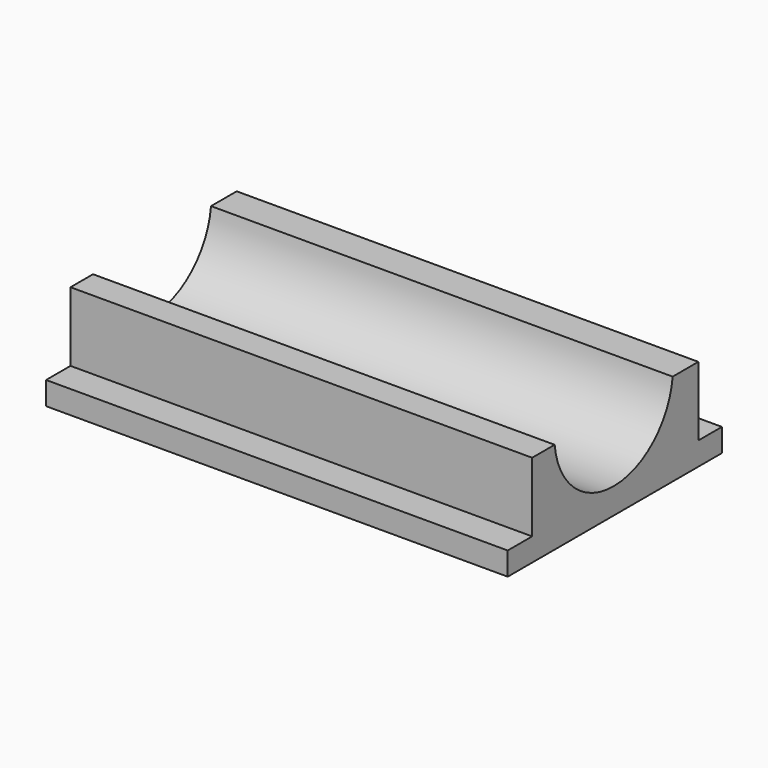
from build123d import *

# Parameters (mm, degrees)
F0_W     = 114.3
F0_H     = 12.7
F0_W_2   = 16.2275771356
F0_W_3   = 16.7924228644
F1_DEPTH = 254


with BuildPart() as f1:
    # F0 (on Right) → F1 (new body)
    with BuildSketch(Plane.YZ):
        with BuildLine():
            Line((-56.8675771356, 44.45), (-56.8675771356, 6.35))
            Line((-56.8675771356, 6.35), (57.4324228644, 6.35))
            Line((57.4324228644, 6.35), (57.4324228644, 44.45))
            Line((57.4324228644, 44.45), (39.7805348039, 44.45))
            ThreePointArc((39.7805348039, 44.45), (-0.8059330285, 7.8352421713), (-41.3924008608, 44.45))
            Line((-41.3924008608, 44.45), (-56.8675771356, 44.45))
        make_face()
        with BuildLine():
            Line((-56.8675771356, 44.45), (-56.8675771356, 6.35))
            Line((-56.8675771356, 6.35), (57.4324228644, 6.35))
            Line((57.4324228644, 6.35), (57.4324228644, 44.45))
            Line((57.4324228644, 44.45), (39.7805348039, 44.45))
            ThreePointArc((39.7805348039, 44.45), (-0.8059330285, 7.8352421713), (-41.3924008608, 44.45))
            Line((-41.3924008608, 44.45), (-56.8675771356, 44.45))
        make_face()
        with Locations((0.2824228644, 0)):
            Rectangle(F0_W, F0_H)
        with Locations((65.5462114322, 0)):
            Rectangle(F0_W_2, F0_H)
        with Locations((-65.2637885678, 0)):
            Rectangle(F0_W_3, F0_H)
    extrude(amount=F1_DEPTH)


solid = f1.part
